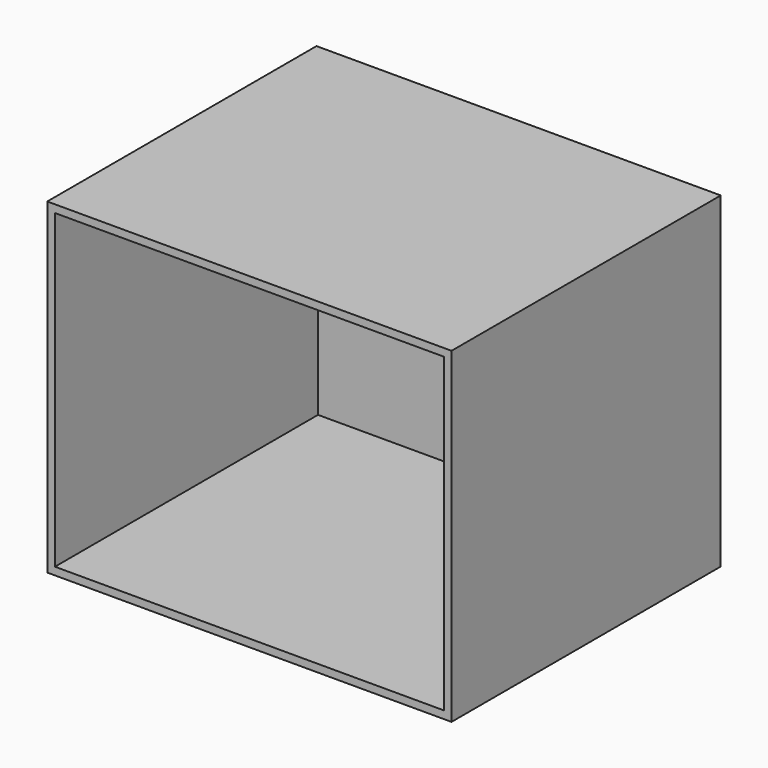
from build123d import *

# Parameters (mm, degrees)
F0_W     = 128.8053318858
F0_H     = 108.9101880789
F1_DEPTH = 103.124
F2_T     = 2.54


with BuildPart() as f1:
    # F0 (on Top) → F1 (new body)
    with BuildSketch(Plane.XY):
        with Locations((1.749817282, -8.3893612027)):
            Rectangle(F0_W, F0_H)
    extrude(amount=F1_DEPTH)

    # F2
    f2_openings = [f1.faces().sort_by_distance(p)[0] for p in [
        (1.749817, -62.844455, 51.562),
    ]]
    offset(amount=F2_T, openings=f2_openings, kind=Kind.INTERSECTION)


solid = f1.part
